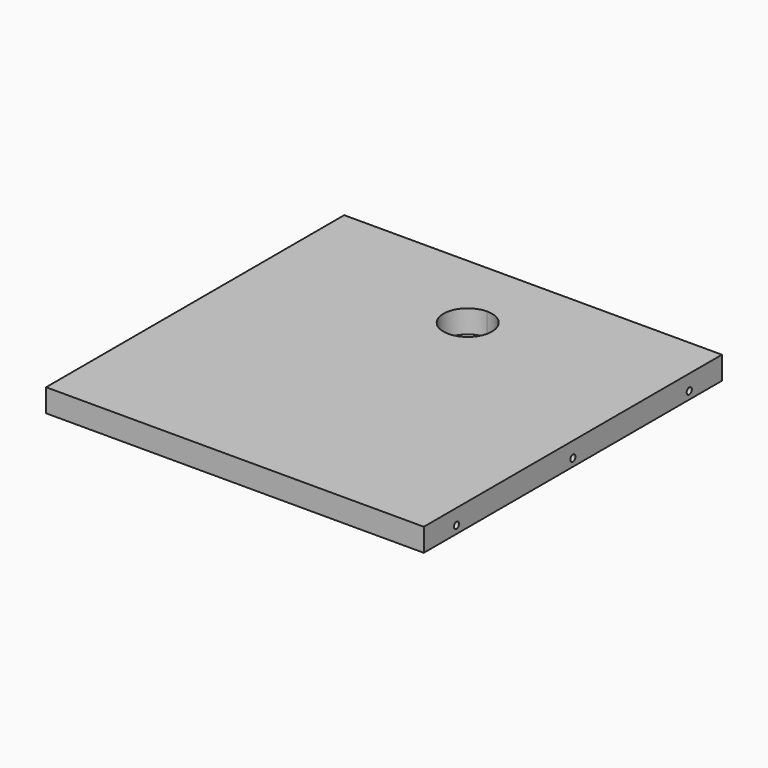
from build123d import *

# Parameters (mm, degrees)
F0_W      = 469.9
F0_H      = 463.55
F1_DEPTH  = 19.05
F3_D      = 15.0114
F3_DEPTH  = 14.224
F3_TIP    = 4.5098795482
F5_D      = 8.001
F5_DEPTH  = 25.4
F5_TIP    = 2.4037429064
F7_D      = 8.001
F7_DEPTH  = 25.4
F7_TIP    = 2.4037429064
F9_D      = 8.001
F9_DEPTH  = 25.4
F9_TIP    = 2.4037429064
F10_DEPTH = 9.525
F12_DEPTH = 31.75
F14_D     = 8.9916
F14_DEPTH = 19.05
F14_TIP   = 2.701349171


with BuildPart() as f1:
    # F0 (on Top) → F1 (new body)
    with BuildSketch(Plane.XY):
        Rectangle(F0_W, F0_H)
    extrude(amount=F1_DEPTH)

    # F3
    with Locations(Plane(origin=(0, 0, 0), x_dir=(1, 0, 0), z_dir=(0, 0, -1))):
        with Locations((-211.074, 180.975), (-211.074, 0), (-211.074, -180.975), (-184.15, -207.899), (0, -207.899), (184.15, -207.899), (211.074, -180.975), (211.074, 0), (211.074, 180.975)):
            Hole(F3_D / 2, depth=F3_DEPTH)
            with Locations((0, 0, -(F3_DEPTH + F3_TIP / 2))):  # 118° drill point
                Cone(0, F3_D / 2, F3_TIP, mode=Mode.SUBTRACT)

    # F5
    with Locations(Plane.YZ.offset(234.95)):
        with Locations((-180.975, 9.525), (0, 9.525), (180.975, 9.525)):
            Hole(F5_D / 2, depth=F5_DEPTH)
            with Locations((0, 0, -(F5_DEPTH + F5_TIP / 2))):  # 118° drill point
                Cone(0, F5_D / 2, F5_TIP, mode=Mode.SUBTRACT)

    # F7
    with Locations(Plane(origin=(0, 231.775, 0), x_dir=(-1, 0, 0), z_dir=(0, 1, 0))):
        with Locations((-184.15, 9.525), (0, 9.525), (184.15, 9.525)):
            Hole(F7_D / 2, depth=F7_DEPTH)
            with Locations((0, 0, -(F7_DEPTH + F7_TIP / 2))):  # 118° drill point
                Cone(0, F7_D / 2, F7_TIP, mode=Mode.SUBTRACT)

    # F9
    with Locations(Plane(origin=(-234.95, 0, 0), x_dir=(0, -1, 0), z_dir=(-1, 0, 0))):
        with Locations((-180.975, 9.525), (0, 9.525), (180.975, 9.525)):
            Hole(F9_D / 2, depth=F9_DEPTH)
            with Locations((0, 0, -(F9_DEPTH + F9_TIP / 2))):  # 118° drill point
                Cone(0, F9_D / 2, F9_TIP, mode=Mode.SUBTRACT)

    # F10 (add): a face of the model
    f10_faces = [f1.faces().sort_by_distance(p)[0] for p in [
        (0, 0, 19.05),
    ]]
    extrude(f10_faces, amount=F10_DEPTH)

    # F11 (on face) → F12 (cut)
    with BuildSketch(Plane(origin=(0, 0, 0), x_dir=(1, 0, 0), z_dir=(0, 0, -1))):
        with BuildLine():
            ThreePointArc((30.1625, -130.175), (-21.3281082875, -108.8468917125), (0, -160.3375))
            ThreePointArc((0, -160.3375), (21.3281082875, -151.5031082875), (30.1625, -130.175))
        make_face()
    extrude(amount=-F12_DEPTH, mode=Mode.SUBTRACT)

    # F14
    with Locations(Plane(origin=(0, 0, 0), x_dir=(1, 0, 0), z_dir=(0, 0, -1))):
        with Locations((-184.15, 193.675), (-139.7, 193.675), (-139.7, 120.523), (-184.15, 120.523), (139.7, 193.675), (184.15, 193.675), (184.15, 120.523), (139.7, 120.523), (184.15, -107.823), (139.7, -107.823), (139.7, -180.975), (184.15, -180.975), (-139.7, -107.823), (-184.15, -107.823), (-184.15, -180.975), (-139.7, -180.975)):
            Hole(F14_D / 2, depth=F14_DEPTH)
            with Locations((0, 0, -(F14_DEPTH + F14_TIP / 2))):  # 118° drill point
                Cone(0, F14_D / 2, F14_TIP, mode=Mode.SUBTRACT)


solid = f1.part
